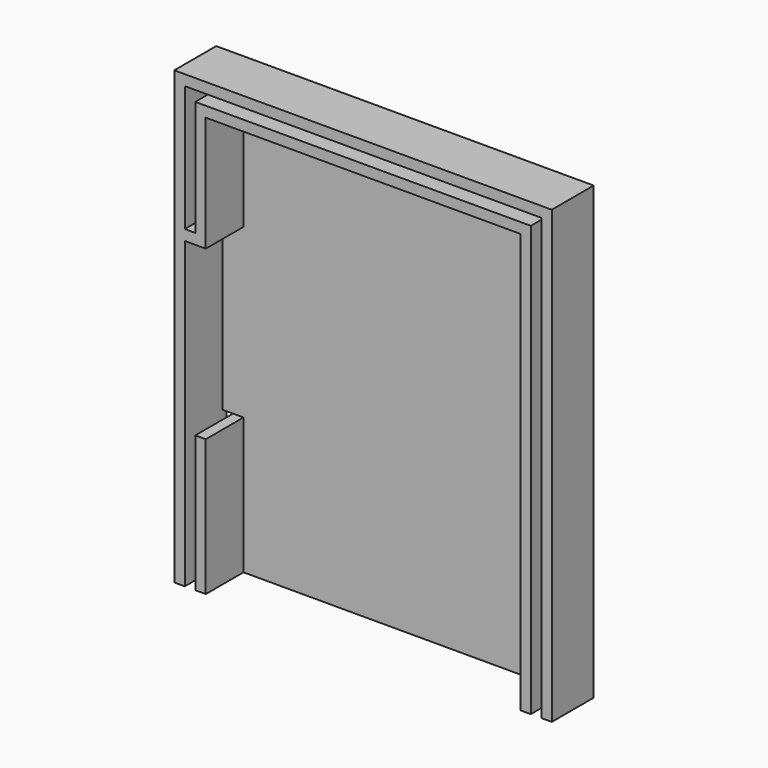
from build123d import *

# Parameters (mm, degrees)
F1_DEPTH = 500
F2_W     = 100
F2_H     = 1300
F3_DEPTH = 500.001
F5_DEPTH = 50


with BuildPart() as f1:
    # F0 (on Front) → F1 (new body)
    with BuildSketch(Plane.XZ):
        Polygon((-1826.582307, 4300), (-1826.582307, 0), (-1526.582307, 0), (-1526.582307, 1300), (-1726.582307, 1300), (-1726.582307, 2900), (-1526.582307, 2900), (-1526.582307, 4000), (1473.417693, 4000), (1473.417693, 0), (1773.417693, 0), (1773.417693, 4300), align=None)
    extrude(amount=F1_DEPTH)

    # F2 (on face) → F3 (cut, through all)
    with BuildSketch(Plane.XZ.offset(500)):
        Polygon((-1726.582307, 4200), (-1726.582307, 3000), (-1626.582307, 3000), (-1626.582307, 4100), (1573.417693, 4100), (1573.417693, 0), (1673.417693, 0), (1673.417693, 4200), align=None)
        with Locations((-1676.582307, 650)):
            Rectangle(F2_W, F2_H)
    extrude(amount=-F3_DEPTH, mode=Mode.SUBTRACT)


with BuildPart() as f5:
    # F4 (on face) → F5 (new body)
    with BuildSketch(Plane(origin=(0, 0, 0), x_dir=(-1, 0, 0), z_dir=(0, 1, 0))):
        Polygon((-1473.417693, 0), (1526.967645, 0), (1526.967645, 1299.635053), (1726.582307, 1299.635053), (1726.582307, 2900), (1526.582307, 2900), (1526.582307, 4000), (-1473.417693, 4000), align=None)
    extrude(amount=-F5_DEPTH)


solid = Compound([f1.part, f5.part])
